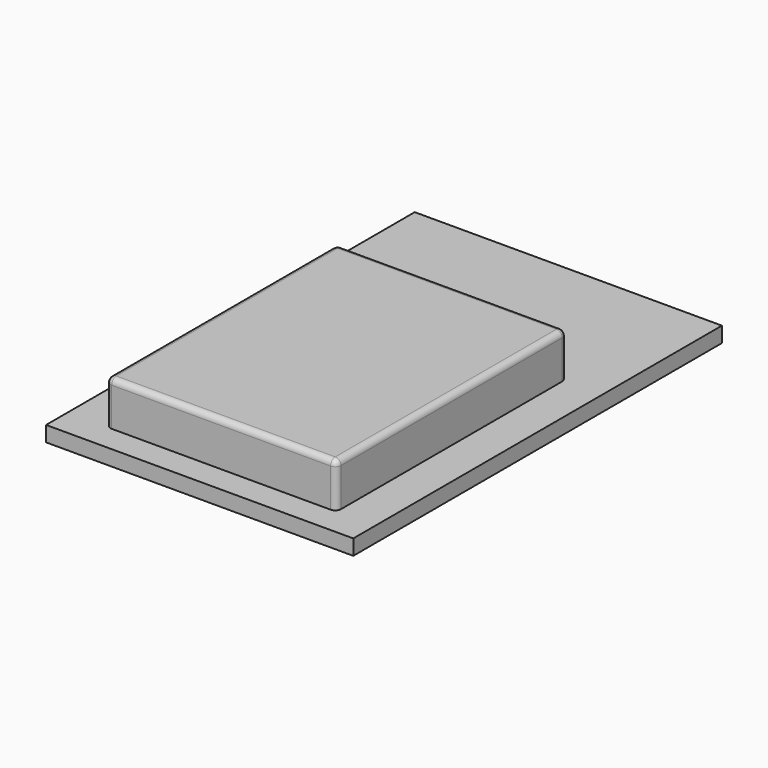
from build123d import *

# Parameters (mm, degrees)
F0_W     = 16
F0_H     = 24
F1_DEPTH = 0.8
F2_W     = 12
F2_H     = 15
F3_DEPTH = 2.3
F4_R     = 0.3


with BuildPart() as f1:
    # F0 (on Top) → F1 (new body)
    with BuildSketch(Plane.XY):
        Rectangle(F0_W, F0_H)
    extrude(amount=F1_DEPTH)


with BuildPart() as f3:
    # F2 (on face) → F3 (new body)
    with BuildSketch(Plane.XY.offset(0.8)):
        with Locations((0, -3.1)):
            Rectangle(F2_W, F2_H)
    extrude(amount=F3_DEPTH)

    # F4
    f4_edges = [f3.edges().sort_by_distance(p)[0] for p in [
        (6, -3.1, 3.1),
        (0, 4.4, 3.1),
        (-6, -3.1, 3.1),
        (0, -10.6, 3.1),
        (-6, 4.4, 1.95),
        (6, 4.4, 1.95),
        (-6, -10.6, 1.95),
        (6, -10.6, 1.95),
    ]]
    fillet(f4_edges, radius=F4_R)


solid = Compound([f1.part, f3.part])
